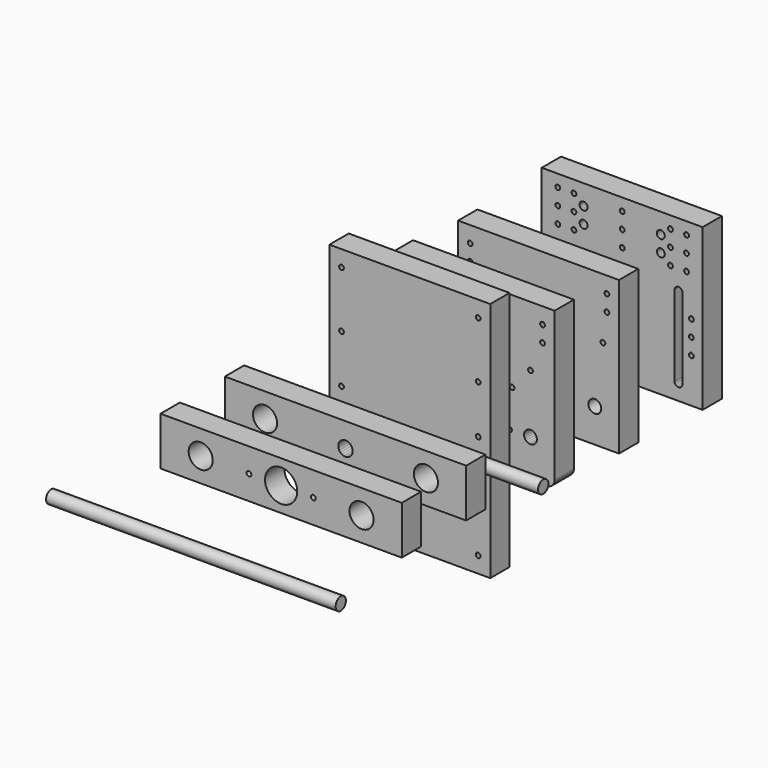
from build123d import *

# Parameters (mm, degrees)
F9_DEPTH  = 15
F2_W      = 100
F2_H      = 150
F10_DEPTH = 15
F4_W      = 150
F4_H      = 30
F4_R      = 7.5000000827
F4_R_2    = 7.4999999042
F11_DEPTH = 15
F6_W      = 150
F6_H      = 30
F6_R      = 1.5000002084
F6_R_2    = 7.5000003221
F6_R_3    = 7.5000001818
F6_R_4    = 10.0000000816
F6_R_5    = 1.5000000892
F12_DEPTH = 15
F8_W      = 100
F8_H      = 94.999957
F8_R      = 3.9999998967
F8_R_2    = 3.9999996848
F13_DEPTH = 15
F15_W     = 100
F15_H     = 100
F16_DEPTH = 15
F18_R     = 4
F19_DEPTH = 180


with BuildPart() as f9:
    # F0 (on Front) → F9 (new body)
    with BuildSketch(Plane.XZ):
        Polygon((-23.55, -51), (23.55, -51), (24.183408, -50.963818), (24.808576, -50.855743), (25.417371, -50.67718), (26.001871, -50.430453), (26.554474, -50.118771), (27.067989, -49.74619), (27.535737, -49.317556), (27.951633, -48.838446), (28.310264, -48.315092), (28.606967, -47.754305), (28.83788, -47.163378), (29, -46.55), (45, -46.55), (45.652631, -46.507225), (46.294095, -46.379629), (46.913417, -46.169398), (47.5, -45.880127), (48.043807, -45.516767), (48.535534, -45.085534), (48.966767, -44.593807), (49.330127, -44.05), (49.619398, -43.463417), (49.829629, -42.844095), (49.957224, -42.202631), (50, -41.55), (50, 51), (-50, 51), (-50, -41.55), (-49.957224, -42.202631), (-49.829629, -42.844095), (-49.619398, -43.463417), (-49.330127, -44.05), (-48.966767, -44.593807), (-48.535534, -45.085534), (-48.043807, -45.516767), (-47.5, -45.880127), (-46.913417, -46.169398), (-46.294095, -46.379629), (-45.652631, -46.507225), (-45, -46.55), (-29, -46.55), (-28.83788, -47.163378), (-28.606967, -47.754305), (-28.310264, -48.315092), (-27.951633, -48.838446), (-27.535738, -49.317556), (-27.067989, -49.74619), (-26.554474, -50.118771), (-26.001871, -50.430453), (-25.417371, -50.67718), (-24.808576, -50.855743), (-24.183408, -50.963818), align=None)
        Polygon((-22.101111, -46.938229), (-22.250962, -47.3), (-22.48934, -47.61066), (-22.8, -47.849038), (-23.161771, -47.998889), (-23.55, -48.05), (-23.938229, -47.998889), (-24.3, -47.849038), (-24.61066, -47.61066), (-24.849038, -47.3), (-24.998889, -46.938229), (-25.05, -46.55), (-24.998889, -46.161772), (-24.849038, -45.8), (-24.61066, -45.48934), (-24.3, -45.250962), (-23.938229, -45.101112), (-23.55, -45.05), (-23.161771, -45.101112), (-22.8, -45.250962), (-22.48934, -45.48934), (-22.250962, -45.8), (-22.101111, -46.161772), (-22.05, -46.55), align=None, mode=Mode.SUBTRACT)
        Polygon((-35, -27), (-36.035276, -26.863704), (-37, -26.464102), (-37.828427, -25.828427), (-38.464102, -25), (-38.863703, -24.035276), (-39, -23), (-38.863703, -21.964724), (-38.464102, -21), (-37.828427, -20.171573), (-37, -19.535899), (-36.035276, -19.136297), (-35, -19), (-33.964724, -19.136297), (-33, -19.535899), (-32.171573, -20.171573), (-31.535898, -21), (-31.136297, -21.964724), (-31, -23), (-31.136297, -24.035276), (-31.535898, -25), (-32.171573, -25.828427), (-33, -26.464102), (-33.964724, -26.863704), align=None, mode=Mode.SUBTRACT)
        Polygon((-21.17031, -24.299038), (-21.532082, -24.448889), (-21.92031, -24.5), (-22.308539, -24.448889), (-22.67031, -24.299038), (-22.98097, -24.06066), (-23.219348, -23.75), (-23.369199, -23.388229), (-23.42031, -23), (-23.369199, -22.611772), (-23.219348, -22.25), (-22.98097, -21.93934), (-22.67031, -21.700962), (-22.308539, -21.551112), (-21.92031, -21.5), (-21.532082, -21.551112), (-21.17031, -21.700962), (-20.85965, -21.93934), (-20.621272, -22.25), (-20.471421, -22.611772), (-20.42031, -23), (-20.471421, -23.388229), (-20.621272, -23.75), (-20.85965, -24.06066), align=None, mode=Mode.SUBTRACT)
        Polygon((-1.5, -44.92031), (-1.448889, -44.532082), (-1.299038, -44.17031), (-1.06066, -43.85965), (-0.75, -43.621272), (-0.388229, -43.471422), (0, -43.42031), (0.388229, -43.471422), (0.75, -43.621272), (1.06066, -43.85965), (1.299038, -44.17031), (1.448889, -44.532082), (1.5, -44.92031), (1.448889, -45.308539), (1.299038, -45.67031), (1.06066, -45.980971), (0.75, -46.219349), (0.388229, -46.369199), (0, -46.42031), (-0.388229, -46.369199), (-0.75, -46.219349), (-1.06066, -45.980971), (-1.299038, -45.67031), (-1.448889, -45.308539), align=None, mode=Mode.SUBTRACT)
        Polygon((22.48934, -45.48934), (22.8, -45.250962), (23.161771, -45.101112), (23.55, -45.05), (23.938229, -45.101112), (24.3, -45.250962), (24.61066, -45.48934), (24.849038, -45.8), (24.998889, -46.161772), (25.05, -46.55), (24.998889, -46.938229), (24.849038, -47.3), (24.61066, -47.61066), (24.3, -47.849038), (23.938229, -47.998889), (23.55, -48.05), (23.161771, -47.998889), (22.8, -47.849038), (22.48934, -47.61066), (22.250962, -47.3), (22.101111, -46.938229), (22.05, -46.55), (22.101111, -46.161772), (22.250962, -45.8), align=None, mode=Mode.SUBTRACT)
        Polygon((5.9, -33.2191), (3.054065, -34.397925), (0, -34.8), (-3.054065, -34.397925), (-5.9, -33.2191), (-8.34386, -31.34386), (-10.2191, -28.9), (-11.397925, -26.054065), (-11.8, -23), (-11.397925, -19.945936), (-10.2191, -17.1), (-8.34386, -14.65614), (-5.9, -12.7809), (-3.054065, -11.602075), (0, -11.2), (3.054065, -11.602075), (5.9, -12.7809), (8.34386, -14.65614), (10.2191, -17.1), (11.397925, -19.945936), (11.8, -23), (11.397925, -26.054065), (10.2191, -28.9), (8.34386, -31.34386), align=None, mode=Mode.SUBTRACT)
        Polygon((20.85965, -21.93934), (21.17031, -21.700962), (21.532082, -21.551112), (21.92031, -21.5), (22.308539, -21.551112), (22.67031, -21.700962), (22.98097, -21.93934), (23.219348, -22.25), (23.369199, -22.611772), (23.42031, -23), (23.369199, -23.388229), (23.219348, -23.75), (22.98097, -24.06066), (22.67031, -24.299038), (22.308539, -24.448889), (21.92031, -24.5), (21.532082, -24.448889), (21.17031, -24.299038), (20.85965, -24.06066), (20.621272, -23.75), (20.471421, -23.388229), (20.42031, -23), (20.471421, -22.611772), (20.621272, -22.25), align=None, mode=Mode.SUBTRACT)
        Polygon((-1.448889, -0.691461), (-1.299038, -0.32969), (-1.06066, -0.01903), (-0.75, 0.219348), (-0.388229, 0.369199), (0, 0.42031), (0.388229, 0.369199), (0.75, 0.219348), (1.06066, -0.01903), (1.299038, -0.32969), (1.448889, -0.691461), (1.5, -1.07969), (1.448889, -1.467919), (1.299038, -1.82969), (1.06066, -2.14035), (0.75, -2.378728), (0.388229, -2.528579), (0, -2.57969), (-0.388229, -2.528579), (-0.75, -2.378728), (-1.06066, -2.14035), (-1.299038, -1.82969), (-1.448889, -1.467919), (-1.5, -1.07969), align=None, mode=Mode.SUBTRACT)
        Polygon((33, -26.464102), (32.171573, -25.828427), (31.535898, -25), (31.136297, -24.035276), (31, -23), (31.136297, -21.964724), (31.535898, -21), (32.171573, -20.171573), (33, -19.535899), (33.964724, -19.136297), (35, -19), (36.035276, -19.136297), (37, -19.535899), (37.828427, -20.171573), (38.464102, -21), (38.863703, -21.964724), (39, -23), (38.863703, -24.035276), (38.464102, -25), (37.828427, -25.828427), (37, -26.464102), (36.035276, -26.863704), (35, -27), (33.964724, -26.863704), align=None, mode=Mode.SUBTRACT)
        Polygon((-35.75, 14.799038), (-35.388229, 14.948888), (-35, 15), (-34.611771, 14.948888), (-34.25, 14.799038), (-33.93934, 14.56066), (-33.700962, 14.25), (-33.551111, 13.888228), (-33.5, 13.5), (-33.551111, 13.111771), (-33.700962, 12.75), (-33.93934, 12.43934), (-34.25, 12.200962), (-34.611771, 12.051111), (-35, 12), (-35.388229, 12.051111), (-35.75, 12.200962), (-36.06066, 12.43934), (-36.299038, 12.75), (-36.448889, 13.111771), (-36.5, 13.5), (-36.448889, 13.888228), (-36.299038, 14.25), (-36.06066, 14.56066), align=None, mode=Mode.SUBTRACT)
        Polygon((-24.849038, -0.2), (-24.998889, 0.161771), (-25.05, 0.55), (-24.998889, 0.938228), (-24.849038, 1.3), (-24.61066, 1.61066), (-24.3, 1.849038), (-23.938229, 1.998888), (-23.55, 2.05), (-23.161771, 1.998888), (-22.8, 1.849038), (-22.48934, 1.61066), (-22.250962, 1.3), (-22.101111, 0.938228), (-22.05, 0.55), (-22.101111, 0.161771), (-22.250962, -0.2), (-22.48934, -0.51066), (-22.8, -0.749038), (-23.161771, -0.898889), (-23.55, -0.95), (-23.938229, -0.898889), (-24.3, -0.749038), (-24.61066, -0.51066), align=None, mode=Mode.SUBTRACT)
        Polygon((-19.611771, 14.948888), (-19.25, 14.799038), (-18.93934, 14.56066), (-18.700962, 14.25), (-18.551111, 13.888228), (-18.5, 13.5), (-18.551111, 13.111771), (-18.700962, 12.75), (-18.93934, 12.43934), (-19.25, 12.200962), (-19.611771, 12.051111), (-20, 12), (-20.388229, 12.051111), (-20.75, 12.200962), (-21.06066, 12.43934), (-21.299038, 12.75), (-21.448889, 13.111771), (-21.5, 13.5), (-21.448889, 13.888228), (-21.299038, 14.25), (-21.06066, 14.56066), (-20.75, 14.799038), (-20.388229, 14.948888), (-20, 15), align=None, mode=Mode.SUBTRACT)
        Polygon((-41.43934, 32.06066), (-41.200962, 31.75), (-41.051111, 31.388228), (-41, 31), (-41.051111, 30.611771), (-41.200962, 30.25), (-41.43934, 29.93934), (-41.75, 29.700962), (-42.111771, 29.551111), (-42.5, 29.5), (-42.888229, 29.551111), (-43.25, 29.700962), (-43.56066, 29.93934), (-43.799038, 30.25), (-43.948889, 30.611771), (-44, 31), (-43.948889, 31.388228), (-43.799038, 31.75), (-43.56066, 32.06066), (-43.25, 32.299038), (-42.888229, 32.448888), (-42.5, 32.5), (-42.111771, 32.448888), (-41.75, 32.299038), align=None, mode=Mode.SUBTRACT)
        Polygon((-41.501836, 39.880327), (-41.82564, 39.660135), (-42.195401, 39.531252), (-42.58592, 39.502463), (-42.970583, 39.575727), (-43.323177, 39.746054), (-43.619673, 40.001835), (-43.839865, 40.32564), (-43.968748, 40.695401), (-43.997537, 41.085919), (-43.924272, 41.470583), (-43.753946, 41.823177), (-43.498164, 42.119673), (-43.17436, 42.339865), (-42.804599, 42.468747), (-42.41408, 42.497537), (-42.029417, 42.424272), (-41.676823, 42.253945), (-41.380327, 41.998164), (-41.160135, 41.67436), (-41.031252, 41.304599), (-41.002463, 40.91408), (-41.075728, 40.529417), (-41.246055, 40.176823), align=None, mode=Mode.SUBTRACT)
        Polygon((24.998889, 0.161771), (24.849038, -0.2), (24.61066, -0.51066), (24.3, -0.749038), (23.938229, -0.898889), (23.55, -0.95), (23.161771, -0.898889), (22.8, -0.749038), (22.48934, -0.51066), (22.250962, -0.2), (22.101111, 0.161771), (22.05, 0.55), (22.101111, 0.938228), (22.250962, 1.3), (22.48934, 1.61066), (22.8, 1.849038), (23.161771, 1.998888), (23.55, 2.05), (23.938229, 1.998888), (24.3, 1.849038), (24.61066, 1.61066), (24.849038, 1.3), (24.998889, 0.938228), (25.05, 0.55), align=None, mode=Mode.SUBTRACT)
        Polygon((1.448889, 13.888228), (1.5, 13.5), (1.448889, 13.111771), (1.299038, 12.75), (1.06066, 12.43934), (0.75, 12.200962), (0.388229, 12.051111), (0, 12), (-0.388229, 12.051111), (-0.75, 12.200962), (-1.06066, 12.43934), (-1.299038, 12.75), (-1.448889, 13.111771), (-1.5, 13.5), (-1.448889, 13.888228), (-1.299038, 14.25), (-1.06066, 14.56066), (-0.75, 14.799038), (-0.388229, 14.948888), (0, 15), (0.388229, 14.948888), (0.75, 14.799038), (1.06066, 14.56066), (1.299038, 14.25), align=None, mode=Mode.SUBTRACT)
        Polygon((18.551111, 13.888228), (18.700962, 14.25), (18.93934, 14.56066), (19.25, 14.799038), (19.611771, 14.948888), (20, 15), (20.388229, 14.948888), (20.75, 14.799038), (21.06066, 14.56066), (21.299038, 14.25), (21.448889, 13.888228), (21.5, 13.5), (21.448889, 13.111771), (21.299038, 12.75), (21.06066, 12.43934), (20.75, 12.200962), (20.388229, 12.051111), (20, 12), (19.611771, 12.051111), (19.25, 12.200962), (18.93934, 12.43934), (18.700962, 12.75), (18.551111, 13.111771), (18.5, 13.5), align=None, mode=Mode.SUBTRACT)
        Polygon((36.06066, 12.43934), (35.75, 12.200962), (35.388229, 12.051111), (35, 12), (34.611771, 12.051111), (34.25, 12.200962), (33.93934, 12.43934), (33.700962, 12.75), (33.551111, 13.111771), (33.5, 13.5), (33.551111, 13.888228), (33.700962, 14.25), (33.93934, 14.56066), (34.25, 14.799038), (34.611771, 14.948888), (35, 15), (35.388229, 14.948888), (35.75, 14.799038), (36.06066, 14.56066), (36.299038, 14.25), (36.448889, 13.888228), (36.5, 13.5), (36.448889, 13.111771), (36.299038, 12.75), align=None, mode=Mode.SUBTRACT)
        Polygon((42.5, 32.5), (42.888229, 32.448888), (43.25, 32.299038), (43.56066, 32.06066), (43.799038, 31.75), (43.948889, 31.388228), (44, 31), (43.948889, 30.611771), (43.799038, 30.25), (43.56066, 29.93934), (43.25, 29.700962), (42.888229, 29.551111), (42.5, 29.5), (42.111771, 29.551111), (41.75, 29.700962), (41.43934, 29.93934), (41.200962, 30.25), (41.051111, 30.611771), (41, 31), (41.051111, 31.388228), (41.200962, 31.75), (41.43934, 32.06066), (41.75, 32.299038), (42.111771, 32.448888), align=None, mode=Mode.SUBTRACT)
        Polygon((41.43934, 42.06066), (41.75, 42.299038), (42.111771, 42.448888), (42.5, 42.5), (42.888229, 42.448888), (43.25, 42.299038), (43.56066, 42.06066), (43.799038, 41.75), (43.948889, 41.388228), (44, 41), (43.948889, 40.611771), (43.799038, 40.25), (43.56066, 39.93934), (43.25, 39.700962), (42.888229, 39.551111), (42.5, 39.5), (42.111771, 39.551111), (41.75, 39.700962), (41.43934, 39.93934), (41.200962, 40.25), (41.051111, 40.611771), (41, 41), (41.051111, 41.388228), (41.200962, 41.75), align=None, mode=Mode.SUBTRACT)
    extrude(amount=F9_DEPTH)


with BuildPart() as f10:
    # F2 (on offset) → F10 (new body)
    with BuildSketch(Plane.XZ.offset(50)):
        Rectangle(F2_W, F2_H)
        Polygon((-41.75, -66.299038), (-42.111771, -66.448889), (-42.5, -66.5), (-42.888228, -66.448889), (-43.25, -66.299038), (-43.56066, -66.06066), (-43.799038, -65.75), (-43.948889, -65.388229), (-44, -65), (-43.948889, -64.611772), (-43.799038, -64.25), (-43.56066, -63.93934), (-43.25, -63.700962), (-42.888228, -63.551112), (-42.5, -63.5), (-42.111771, -63.551112), (-41.75, -63.700962), (-41.43934, -63.93934), (-41.200962, -64.25), (-41.051111, -64.611772), (-41, -65), (-41.051111, -65.388229), (-41.200962, -65.75), (-41.43934, -66.06066), align=None, mode=Mode.SUBTRACT)
        Polygon((-43.799038, -30.75), (-43.948889, -30.388229), (-44, -30), (-43.948889, -29.611772), (-43.799038, -29.25), (-43.56066, -28.93934), (-43.25, -28.700962), (-42.888228, -28.551112), (-42.5, -28.5), (-42.111771, -28.551112), (-41.75, -28.700962), (-41.43934, -28.93934), (-41.200962, -29.25), (-41.051111, -29.611772), (-41, -30), (-41.051111, -30.388229), (-41.200962, -30.75), (-41.43934, -31.06066), (-41.75, -31.299038), (-42.111771, -31.448889), (-42.5, -31.5), (-42.888228, -31.448889), (-43.25, -31.299038), (-43.56066, -31.06066), align=None, mode=Mode.SUBTRACT)
        Polygon((42.111772, -66.448889), (41.75, -66.299038), (41.43934, -66.06066), (41.200962, -65.75), (41.051111, -65.388229), (41, -65), (41.051111, -64.611772), (41.200962, -64.25), (41.43934, -63.93934), (41.75, -63.700962), (42.111772, -63.551112), (42.5, -63.5), (42.888229, -63.551112), (43.25, -63.700962), (43.56066, -63.93934), (43.799038, -64.25), (43.948889, -64.611772), (44, -65), (43.948889, -65.388229), (43.799038, -65.75), (43.56066, -66.06066), (43.25, -66.299038), (42.888229, -66.448889), (42.5, -66.5), align=None, mode=Mode.SUBTRACT)
        Polygon((42.888229, -31.448889), (42.5, -31.5), (42.111772, -31.448889), (41.75, -31.299038), (41.43934, -31.06066), (41.200962, -30.75), (41.051111, -30.388229), (41, -30), (41.051111, -29.611772), (41.200962, -29.25), (41.43934, -28.93934), (41.75, -28.700962), (42.111772, -28.551112), (42.5, -28.5), (42.888229, -28.551112), (43.25, -28.700962), (43.56066, -28.93934), (43.799038, -29.25), (43.948889, -29.611772), (44, -30), (43.948889, -30.388229), (43.799038, -30.75), (43.56066, -31.06066), (43.25, -31.299038), align=None, mode=Mode.SUBTRACT)
        Polygon((-41.75, -1.299038), (-42.111771, -1.448889), (-42.5, -1.5), (-42.888228, -1.448889), (-43.25, -1.299038), (-43.56066, -1.06066), (-43.799038, -0.75), (-43.948889, -0.388229), (-44, 0), (-43.948889, 0.388228), (-43.799038, 0.75), (-43.56066, 1.06066), (-43.25, 1.299038), (-42.888228, 1.448888), (-42.5, 1.5), (-42.111771, 1.448888), (-41.75, 1.299038), (-41.43934, 1.06066), (-41.200962, 0.75), (-41.051111, 0.388228), (-41, 0), (-41.051111, -0.388229), (-41.200962, -0.75), (-41.43934, -1.06066), align=None, mode=Mode.SUBTRACT)
        Polygon((-43.25, 31.299038), (-42.888228, 31.448888), (-42.5, 31.5), (-42.111771, 31.448888), (-41.75, 31.299038), (-41.43934, 31.06066), (-41.200962, 30.75), (-41.051111, 30.388228), (-41, 30), (-41.051111, 29.611771), (-41.200962, 29.25), (-41.43934, 28.93934), (-41.75, 28.700962), (-42.111771, 28.551111), (-42.5, 28.5), (-42.888228, 28.551111), (-43.25, 28.700962), (-43.56066, 28.93934), (-43.799038, 29.25), (-43.948889, 29.611771), (-44, 30), (-43.948889, 30.388228), (-43.799038, 30.75), (-43.56066, 31.06066), align=None, mode=Mode.SUBTRACT)
        Polygon((-43.799038, 65.75), (-43.56066, 66.06066), (-43.25, 66.299038), (-42.888228, 66.448888), (-42.5, 66.5), (-42.111771, 66.448888), (-41.75, 66.299038), (-41.43934, 66.06066), (-41.200962, 65.75), (-41.051111, 65.388228), (-41, 65), (-41.051111, 64.611771), (-41.200962, 64.25), (-41.43934, 63.93934), (-41.75, 63.700962), (-42.111771, 63.551111), (-42.5, 63.5), (-42.888228, 63.551111), (-43.25, 63.700962), (-43.56066, 63.93934), (-43.799038, 64.25), (-43.948889, 64.611771), (-44, 65), (-43.948889, 65.388228), align=None, mode=Mode.SUBTRACT)
        Polygon((42.888229, -1.448889), (42.5, -1.5), (42.111772, -1.448889), (41.75, -1.299038), (41.43934, -1.06066), (41.200962, -0.75), (41.051111, -0.388229), (41, 0), (41.051111, 0.388228), (41.200962, 0.75), (41.43934, 1.06066), (41.75, 1.299038), (42.111772, 1.448888), (42.5, 1.5), (42.888229, 1.448888), (43.25, 1.299038), (43.56066, 1.06066), (43.799038, 0.75), (43.948889, 0.388228), (44, 0), (43.948889, -0.388229), (43.799038, -0.75), (43.56066, -1.06066), (43.25, -1.299038), align=None, mode=Mode.SUBTRACT)
        Polygon((42.111772, 31.448888), (42.5, 31.5), (42.888229, 31.448888), (43.25, 31.299038), (43.56066, 31.06066), (43.799038, 30.75), (43.948889, 30.388228), (44, 30), (43.948889, 29.611771), (43.799038, 29.25), (43.56066, 28.93934), (43.25, 28.700962), (42.888229, 28.551111), (42.5, 28.5), (42.111772, 28.551111), (41.75, 28.700962), (41.43934, 28.93934), (41.200962, 29.25), (41.051111, 29.611771), (41, 30), (41.051111, 30.388228), (41.200962, 30.75), (41.43934, 31.06066), (41.75, 31.299038), align=None, mode=Mode.SUBTRACT)
        Polygon((41.200962, 65.75), (41.43934, 66.06066), (41.75, 66.299038), (42.111772, 66.448888), (42.5, 66.5), (42.888229, 66.448888), (43.25, 66.299038), (43.56066, 66.06066), (43.799038, 65.75), (43.948889, 65.388228), (44, 65), (43.948889, 64.611771), (43.799038, 64.25), (43.56066, 63.93934), (43.25, 63.700962), (42.888229, 63.551111), (42.5, 63.5), (42.111772, 63.551111), (41.75, 63.700962), (41.43934, 63.93934), (41.200962, 64.25), (41.051111, 64.611771), (41, 65), (41.051111, 65.388228), align=None, mode=Mode.SUBTRACT)
    extrude(amount=F10_DEPTH)


with BuildPart() as f11:
    # F4 (on offset) → F11 (new body)
    with BuildSketch(Plane.XZ.offset(100)):
        Rectangle(F4_W, F4_H)
        with Locations((-50.0000000827, 8.27e-08)):
            Circle(F4_R, mode=Mode.SUBTRACT)
        Polygon((4.346666, 1.164685), (4.5, 0), (4.346666, -1.164686), (3.897114, -2.25), (3.18198, -3.181981), (2.25, -3.897115), (1.164685, -4.346666), (0, -4.5), (-1.164686, -4.346666), (-2.25, -3.897115), (-3.181981, -3.181981), (-3.897115, -2.25), (-4.346667, -1.164686), (-4.5, 0), (-4.346667, 1.164685), (-3.897115, 2.25), (-3.181981, 3.18198), (-2.25, 3.897114), (-1.164686, 4.346666), (0, 4.5), (1.164685, 4.346666), (2.25, 3.897114), (3.18198, 3.18198), (3.897114, 2.25), align=None, mode=Mode.SUBTRACT)
        with Locations((49.9999995823, 0)):
            Circle(F4_R_2, mode=Mode.SUBTRACT)
    extrude(amount=F11_DEPTH)


with BuildPart() as f12:
    # F6 (on offset) → F12 (new body)
    with BuildSketch(Plane.XZ.offset(150)):
        Rectangle(F6_W, F6_H)
        with Locations((-20.0000002195, -2.195e-07)):
            Circle(F6_R, mode=Mode.SUBTRACT)
        with Locations((50.0000001266, -4.67e-08)):
            Circle(F6_R_2, mode=Mode.SUBTRACT)
        with Locations((-49.9999998433, 1.818e-07)):
            Circle(F6_R_3, mode=Mode.SUBTRACT)
        with Locations((-1.792e-07, 8.16e-08)):
            Circle(F6_R_4, mode=Mode.SUBTRACT)
        with Locations((20.0000002602, 8.92e-08)):
            Circle(F6_R_5, mode=Mode.SUBTRACT)
    extrude(amount=F12_DEPTH)


with BuildPart() as f13:
    # F8 (on offset) → F13 (new body)
    with BuildSketch(Plane.XZ.offset(-50)):
        with Locations((0, 5e-07)):
            Rectangle(F8_W, F8_H)
        with Locations((-35, -26.5000211033)):
            Circle(F8_R, mode=Mode.SUBTRACT)
        Polygon((-5.5, -16.973742), (-2.847009, -15.874837), (0, -15.500021), (2.84701, -15.874837), (5.5, -16.973742), (7.778175, -18.721847), (9.526279, -21.000021), (10.625184, -23.653012), (11, -26.500021), (10.625184, -29.347031), (9.526279, -32.000021), (7.778175, -34.278196), (5.5, -36.026301), (2.84701, -37.125205), (0, -37.500021), (-2.847009, -37.125205), (-5.5, -36.026301), (-7.778175, -34.278196), (-9.526279, -32.000021), (-10.625184, -29.347031), (-11, -26.500021), (-10.625184, -23.653012), (-9.526279, -21.000021), (-7.778175, -18.721847), align=None, mode=Mode.SUBTRACT)
        with Locations((34.9999999652, -26.5000212311)):
            Circle(F8_R_2, mode=Mode.SUBTRACT)
        Polygon((-38.93934, 8.939319), (-39.25, 8.700941), (-39.611771, 8.55109), (-40, 8.499979), (-40.388229, 8.55109), (-40.75, 8.700941), (-41.06066, 8.939319), (-41.299038, 9.249979), (-41.448889, 9.61175), (-41.5, 9.999979), (-41.448889, 10.388207), (-41.299038, 10.749979), (-41.06066, 11.060639), (-40.75, 11.299017), (-40.388229, 11.448867), (-40, 11.499979), (-39.611771, 11.448867), (-39.25, 11.299017), (-38.93934, 11.060639), (-38.700962, 10.749979), (-38.551111, 10.388207), (-38.5, 9.999979), (-38.551111, 9.61175), (-38.700962, 9.249979), align=None, mode=Mode.SUBTRACT)
        Polygon((-14.611771, 8.55109), (-15, 8.499979), (-15.388229, 8.55109), (-15.75, 8.700941), (-16.06066, 8.939319), (-16.299038, 9.249979), (-16.448889, 9.61175), (-16.5, 9.999979), (-16.448889, 10.388207), (-16.299038, 10.749979), (-16.06066, 11.060639), (-15.75, 11.299017), (-15.388229, 11.448867), (-15, 11.499979), (-14.611771, 11.448867), (-14.25, 11.299017), (-13.93934, 11.060639), (-13.700962, 10.749979), (-13.551111, 10.388207), (-13.5, 9.999979), (-13.551111, 9.61175), (-13.700962, 9.249979), (-13.93934, 8.939319), (-14.25, 8.700941), align=None, mode=Mode.SUBTRACT)
        Polygon((-41, 27.499979), (-41.051111, 27.11175), (-41.200962, 26.749979), (-41.43934, 26.439319), (-41.75, 26.200941), (-42.111771, 26.05109), (-42.5, 25.999979), (-42.888229, 26.05109), (-43.25, 26.200941), (-43.56066, 26.439319), (-43.799038, 26.749979), (-43.948889, 27.11175), (-44, 27.499979), (-43.948889, 27.888207), (-43.799038, 28.249979), (-43.56066, 28.560639), (-43.25, 28.799017), (-42.888229, 28.948867), (-42.5, 28.999979), (-42.111771, 28.948867), (-41.75, 28.799017), (-41.43934, 28.560639), (-41.200962, 28.249979), (-41.051111, 27.888207), align=None, mode=Mode.SUBTRACT)
        Polygon((-41.200962, 38.249979), (-41.051111, 37.888207), (-41, 37.499979), (-41.051111, 37.11175), (-41.200962, 36.749979), (-41.43934, 36.439319), (-41.75, 36.200941), (-42.111771, 36.05109), (-42.5, 35.999979), (-42.888229, 36.05109), (-43.25, 36.200941), (-43.56066, 36.439319), (-43.799038, 36.749979), (-43.948889, 37.11175), (-44, 37.499979), (-43.948889, 37.888207), (-43.799038, 38.249979), (-43.56066, 38.560639), (-43.25, 38.799017), (-42.888229, 38.948867), (-42.5, 38.999979), (-42.111771, 38.948867), (-41.75, 38.799017), (-41.43934, 38.560639), align=None, mode=Mode.SUBTRACT)
        Polygon((15, 11.499979), (15.388229, 11.448867), (15.75, 11.299017), (16.06066, 11.060639), (16.299038, 10.749979), (16.448889, 10.388207), (16.5, 9.999979), (16.448889, 9.61175), (16.299038, 9.249979), (16.06066, 8.939319), (15.75, 8.700941), (15.388229, 8.55109), (15, 8.499979), (14.611771, 8.55109), (14.25, 8.700941), (13.93934, 8.939319), (13.700962, 9.249979), (13.551111, 9.61175), (13.5, 9.999979), (13.551111, 10.388207), (13.700962, 10.749979), (13.93934, 11.060639), (14.25, 11.299017), (14.611771, 11.448867), align=None, mode=Mode.SUBTRACT)
        Polygon((38.5, 9.999979), (38.551111, 10.388207), (38.700962, 10.749979), (38.93934, 11.060639), (39.25, 11.299017), (39.611771, 11.448867), (40, 11.499979), (40.388229, 11.448867), (40.75, 11.299017), (41.06066, 11.060639), (41.299038, 10.749979), (41.448889, 10.388207), (41.5, 9.999979), (41.448889, 9.61175), (41.299038, 9.249979), (41.06066, 8.939319), (40.75, 8.700941), (40.388229, 8.55109), (40, 8.499979), (39.611771, 8.55109), (39.25, 8.700941), (38.93934, 8.939319), (38.700962, 9.249979), (38.551111, 9.61175), align=None, mode=Mode.SUBTRACT)
        Polygon((43.948889, 27.11175), (43.799038, 26.749979), (43.56066, 26.439319), (43.25, 26.200941), (42.888229, 26.05109), (42.5, 25.999979), (42.111771, 26.05109), (41.75, 26.200941), (41.43934, 26.439319), (41.200962, 26.749979), (41.051111, 27.11175), (41, 27.499979), (41.051111, 27.888207), (41.200962, 28.249979), (41.43934, 28.560639), (41.75, 28.799017), (42.111771, 28.948867), (42.5, 28.999979), (42.888229, 28.948867), (43.25, 28.799017), (43.56066, 28.560639), (43.799038, 28.249979), (43.948889, 27.888207), (44, 27.499979), align=None, mode=Mode.SUBTRACT)
        Polygon((44, 37.499979), (43.948889, 37.11175), (43.799038, 36.749979), (43.56066, 36.439319), (43.25, 36.200941), (42.888229, 36.05109), (42.5, 35.999979), (42.111771, 36.05109), (41.75, 36.200941), (41.43934, 36.439319), (41.200962, 36.749979), (41.051111, 37.11175), (41, 37.499979), (41.051111, 37.888207), (41.200962, 38.249979), (41.43934, 38.560639), (41.75, 38.799017), (42.111771, 38.948867), (42.5, 38.999979), (42.888229, 38.948867), (43.25, 38.799017), (43.56066, 38.560639), (43.799038, 38.249979), (43.948889, 37.888207), align=None, mode=Mode.SUBTRACT)
    extrude(amount=F13_DEPTH)


with BuildPart() as f16:
    # F15 (on offset) → F16 (new body)
    with BuildSketch(Plane(origin=(0, 100, 0), x_dir=(-1, 0, 0), z_dir=(0, 1, 0))):
        Rectangle(F15_W, F15_H)
        Polygon((-42.25, -23.799038), (-42.611771, -23.948889), (-43, -24), (-43.388229, -23.948889), (-43.75, -23.799038), (-44.06066, -23.56066), (-44.299038, -23.25), (-44.448889, -22.888229), (-44.5, -22.5), (-44.448889, -22.111772), (-44.299038, -21.75), (-44.06066, -21.43934), (-43.75, -21.200962), (-43.388229, -21.051111), (-43, -21), (-42.611771, -21.051111), (-42.25, -21.200962), (-41.93934, -21.43934), (-41.700962, -21.75), (-41.551111, -22.111772), (-41.5, -22.5), (-41.551111, -22.888229), (-41.700962, -23.25), (-41.93934, -23.56066), align=None, mode=Mode.SUBTRACT)
        Polygon((-32.5, -40), (-32.585185, -40.647048), (-32.834936, -41.25), (-33.232233, -41.767767), (-33.75, -42.165064), (-34.352952, -42.414815), (-35, -42.5), (-35.647048, -42.414815), (-36.25, -42.165064), (-36.767767, -41.767767), (-37.165063, -41.25), (-37.414815, -40.647048), (-37.5, -40), (-37.5, 10), (-37.414815, 10.647047), (-37.165063, 11.25), (-36.767767, 11.767767), (-36.25, 12.165063), (-35.647048, 12.414814), (-35, 12.5), (-34.352952, 12.414814), (-33.75, 12.165063), (-33.232233, 11.767767), (-32.834936, 11.25), (-32.585185, 10.647047), (-32.5, 10), align=None, mode=Mode.SUBTRACT)
        Polygon((-41.5, -12.5), (-41.551111, -12.888229), (-41.700962, -13.25), (-41.93934, -13.56066), (-42.25, -13.799038), (-42.611771, -13.948889), (-43, -14), (-43.388229, -13.948889), (-43.75, -13.799038), (-44.06066, -13.56066), (-44.299038, -13.25), (-44.448889, -12.888229), (-44.5, -12.5), (-44.448889, -12.111772), (-44.299038, -11.75), (-44.06066, -11.43934), (-43.75, -11.200962), (-43.388229, -11.051111), (-43, -11), (-42.611771, -11.051111), (-42.25, -11.200962), (-41.93934, -11.43934), (-41.700962, -11.75), (-41.551111, -12.111772), align=None, mode=Mode.SUBTRACT)
        Polygon((-42.25, -3.799038), (-42.611771, -3.948889), (-43, -4), (-43.388229, -3.948889), (-43.75, -3.799038), (-44.06066, -3.56066), (-44.299038, -3.25), (-44.448889, -2.888229), (-44.5, -2.5), (-44.448889, -2.111772), (-44.299038, -1.75), (-44.06066, -1.43934), (-43.75, -1.200962), (-43.388229, -1.051111), (-43, -1), (-42.611771, -1.051111), (-42.25, -1.200962), (-41.93934, -1.43934), (-41.700962, -1.75), (-41.551111, -2.111772), (-41.5, -2.5), (-41.551111, -2.888229), (-41.700962, -3.25), (-41.93934, -3.56066), align=None, mode=Mode.SUBTRACT)
        Polygon((-0.75, -23.799038), (-1.06066, -23.56066), (-1.299038, -23.25), (-1.448889, -22.888229), (-1.5, -22.5), (-1.448889, -22.111772), (-1.299038, -21.75), (-1.06066, -21.43934), (-0.75, -21.200962), (-0.388229, -21.051111), (0, -21), (0.388229, -21.051111), (0.75, -21.200962), (1.06066, -21.43934), (1.299038, -21.75), (1.448889, -22.111772), (1.5, -22.5), (1.448889, -22.888229), (1.299038, -23.25), (1.06066, -23.56066), (0.75, -23.799038), (0.388229, -23.948889), (0, -24), (-0.388229, -23.948889), align=None, mode=Mode.SUBTRACT)
        Polygon((-0.75, -11.200962), (-0.388229, -11.051111), (0, -11), (0.388229, -11.051111), (0.75, -11.200962), (1.06066, -11.43934), (1.299038, -11.75), (1.448889, -12.111772), (1.5, -12.5), (1.448889, -12.888229), (1.299038, -13.25), (1.06066, -13.56066), (0.75, -13.799038), (0.388229, -13.948889), (0, -14), (-0.388229, -13.948889), (-0.75, -13.799038), (-1.06066, -13.56066), (-1.299038, -13.25), (-1.448889, -12.888229), (-1.5, -12.5), (-1.448889, -12.111772), (-1.299038, -11.75), (-1.06066, -11.43934), align=None, mode=Mode.SUBTRACT)
        Polygon((1.06066, -3.56066), (0.75, -3.799038), (0.388229, -3.948889), (0, -4), (-0.388229, -3.948889), (-0.75, -3.799038), (-1.06066, -3.56066), (-1.299038, -3.25), (-1.448889, -2.888229), (-1.5, -2.5), (-1.448889, -2.111772), (-1.299038, -1.75), (-1.06066, -1.43934), (-0.75, -1.200962), (-0.388229, -1.051111), (0, -1), (0.388229, -1.051111), (0.75, -1.200962), (1.06066, -1.43934), (1.299038, -1.75), (1.448889, -2.111772), (1.5, -2.5), (1.448889, -2.888229), (1.299038, -3.25), align=None, mode=Mode.SUBTRACT)
        Polygon((37.5, -40), (37.414815, -40.647048), (37.165064, -41.25), (36.767767, -41.767767), (36.25, -42.165064), (35.647048, -42.414815), (35, -42.5), (34.352952, -42.414815), (33.75, -42.165064), (33.232233, -41.767767), (32.834937, -41.25), (32.585185, -40.647048), (32.5, -40), (32.5, 10), (32.585185, 10.647047), (32.834937, 11.25), (33.232233, 11.767767), (33.75, 12.165063), (34.352952, 12.414814), (35, 12.5), (35.647048, 12.414814), (36.25, 12.165063), (36.767767, 11.767767), (37.165064, 11.25), (37.414815, 10.647047), (37.5, 10), align=None, mode=Mode.SUBTRACT)
        Polygon((41.551111, -22.888229), (41.5, -22.5), (41.551111, -22.111772), (41.700962, -21.75), (41.93934, -21.43934), (42.25, -21.200962), (42.611771, -21.051111), (43, -21), (43.388229, -21.051111), (43.75, -21.200962), (44.06066, -21.43934), (44.299038, -21.75), (44.448889, -22.111772), (44.5, -22.5), (44.448889, -22.888229), (44.299038, -23.25), (44.06066, -23.56066), (43.75, -23.799038), (43.388229, -23.948889), (43, -24), (42.611771, -23.948889), (42.25, -23.799038), (41.93934, -23.56066), (41.700962, -23.25), align=None, mode=Mode.SUBTRACT)
        Polygon((44.5, -12.5), (44.448889, -12.888229), (44.299038, -13.25), (44.06066, -13.56066), (43.75, -13.799038), (43.388229, -13.948889), (43, -14), (42.611771, -13.948889), (42.25, -13.799038), (41.93934, -13.56066), (41.700962, -13.25), (41.551111, -12.888229), (41.5, -12.5), (41.551111, -12.111772), (41.700962, -11.75), (41.93934, -11.43934), (42.25, -11.200962), (42.611771, -11.051111), (43, -11), (43.388229, -11.051111), (43.75, -11.200962), (44.06066, -11.43934), (44.299038, -11.75), (44.448889, -12.111772), align=None, mode=Mode.SUBTRACT)
        Polygon((42.611771, -3.948889), (42.25, -3.799038), (41.93934, -3.56066), (41.700962, -3.25), (41.551111, -2.888229), (41.5, -2.5), (41.551111, -2.111772), (41.700962, -1.75), (41.93934, -1.43934), (42.25, -1.200962), (42.611771, -1.051111), (43, -1), (43.388229, -1.051111), (43.75, -1.200962), (44.06066, -1.43934), (44.299038, -1.75), (44.448889, -2.111772), (44.5, -2.5), (44.448889, -2.888229), (44.299038, -3.25), (44.06066, -3.56066), (43.75, -3.799038), (43.388229, -3.948889), (43, -4), align=None, mode=Mode.SUBTRACT)
        Polygon((-38.551111, 22.888228), (-38.5, 22.5), (-38.551111, 22.111771), (-38.700962, 21.75), (-38.93934, 21.43934), (-39.25, 21.200962), (-39.611771, 21.051111), (-40, 21), (-40.388229, 21.051111), (-40.75, 21.200962), (-41.06066, 21.43934), (-41.299038, 21.75), (-41.448889, 22.111771), (-41.5, 22.5), (-41.448889, 22.888228), (-41.299038, 23.25), (-41.06066, 23.56066), (-40.75, 23.799038), (-40.388229, 23.948889), (-40, 24), (-39.611771, 23.948889), (-39.25, 23.799038), (-38.93934, 23.56066), (-38.700962, 23.25), align=None, mode=Mode.SUBTRACT)
        Polygon((-29.611771, 23.948889), (-29.25, 23.799038), (-28.93934, 23.56066), (-28.700962, 23.25), (-28.551111, 22.888228), (-28.5, 22.5), (-28.551111, 22.111771), (-28.700962, 21.75), (-28.93934, 21.43934), (-29.25, 21.200962), (-29.611771, 21.051111), (-30, 21), (-30.388229, 21.051111), (-30.75, 21.200962), (-31.06066, 21.43934), (-31.299038, 21.75), (-31.448889, 22.111771), (-31.5, 22.5), (-31.448889, 22.888228), (-31.299038, 23.25), (-31.06066, 23.56066), (-30.75, 23.799038), (-30.388229, 23.948889), (-30, 24), align=None, mode=Mode.SUBTRACT)
        Polygon((-38.551111, 32.888228), (-38.5, 32.5), (-38.551111, 32.111771), (-38.700962, 31.75), (-38.93934, 31.43934), (-39.25, 31.200962), (-39.611771, 31.051111), (-40, 31), (-40.388229, 31.051111), (-40.75, 31.200962), (-41.06066, 31.43934), (-41.299038, 31.75), (-41.448889, 32.111771), (-41.5, 32.5), (-41.448889, 32.888228), (-41.299038, 33.25), (-41.06066, 33.56066), (-40.75, 33.799038), (-40.388229, 33.948889), (-40, 34), (-39.611771, 33.948889), (-39.25, 33.799038), (-38.93934, 33.56066), (-38.700962, 33.25), align=None, mode=Mode.SUBTRACT)
        Polygon((-31.06066, 33.56066), (-30.75, 33.799038), (-30.388229, 33.948889), (-30, 34), (-29.611771, 33.948889), (-29.25, 33.799038), (-28.93934, 33.56066), (-28.700962, 33.25), (-28.551111, 32.888228), (-28.5, 32.5), (-28.551111, 32.111771), (-28.700962, 31.75), (-28.93934, 31.43934), (-29.25, 31.200962), (-29.611771, 31.051111), (-30, 31), (-30.388229, 31.051111), (-30.75, 31.200962), (-31.06066, 31.43934), (-31.299038, 31.75), (-31.448889, 32.111771), (-31.5, 32.5), (-31.448889, 32.888228), (-31.299038, 33.25), align=None, mode=Mode.SUBTRACT)
        Polygon((-40.75, 43.799038), (-40.388229, 43.948889), (-40, 44), (-39.611771, 43.948889), (-39.25, 43.799038), (-38.93934, 43.56066), (-38.700962, 43.25), (-38.551111, 42.888228), (-38.5, 42.5), (-38.551111, 42.111771), (-38.700962, 41.75), (-38.93934, 41.43934), (-39.25, 41.200962), (-39.611771, 41.051111), (-40, 41), (-40.388229, 41.051111), (-40.75, 41.200962), (-41.06066, 41.43934), (-41.299038, 41.75), (-41.448889, 42.111771), (-41.5, 42.5), (-41.448889, 42.888228), (-41.299038, 43.25), (-41.06066, 43.56066), align=None, mode=Mode.SUBTRACT)
        Polygon((-30, 41), (-30.388229, 41.051111), (-30.75, 41.200962), (-31.06066, 41.43934), (-31.299038, 41.75), (-31.448889, 42.111771), (-31.5, 42.5), (-31.448889, 42.888228), (-31.299038, 43.25), (-31.06066, 43.56066), (-30.75, 43.799038), (-30.388229, 43.948889), (-30, 44), (-29.611771, 43.948889), (-29.25, 43.799038), (-28.93934, 43.56066), (-28.700962, 43.25), (-28.551111, 42.888228), (-28.5, 42.5), (-28.551111, 42.111771), (-28.700962, 41.75), (-28.93934, 41.43934), (-29.25, 41.200962), (-29.611771, 41.051111), align=None, mode=Mode.SUBTRACT)
        Polygon((-26.414815, 26.852952), (-26.5, 27.5), (-26.414815, 28.147047), (-26.165063, 28.75), (-25.767767, 29.267767), (-25.25, 29.665063), (-24.647048, 29.914814), (-24, 30), (-23.352952, 29.914814), (-22.75, 29.665063), (-22.232233, 29.267767), (-21.834936, 28.75), (-21.585185, 28.147047), (-21.5, 27.5), (-21.585185, 26.852952), (-21.834936, 26.25), (-22.232233, 25.732233), (-22.75, 25.334936), (-23.352952, 25.085185), (-24, 25), (-24.647048, 25.085185), (-25.25, 25.334936), (-25.767767, 25.732233), (-26.165063, 26.25), align=None, mode=Mode.SUBTRACT)
        Polygon((-23.352952, 35.085185), (-24, 35), (-24.647048, 35.085185), (-25.25, 35.334936), (-25.767767, 35.732233), (-26.165063, 36.25), (-26.414815, 36.852952), (-26.5, 37.5), (-26.414815, 38.147047), (-26.165063, 38.75), (-25.767767, 39.267767), (-25.25, 39.665063), (-24.647048, 39.914814), (-24, 40), (-23.352952, 39.914814), (-22.75, 39.665063), (-22.232233, 39.267767), (-21.834936, 38.75), (-21.585185, 38.147047), (-21.5, 37.5), (-21.585185, 36.852952), (-21.834936, 36.25), (-22.232233, 35.732233), (-22.75, 35.334936), align=None, mode=Mode.SUBTRACT)
        Polygon((-0.75, 23.799038), (-0.388229, 23.948889), (0, 24), (0.388229, 23.948889), (0.75, 23.799038), (1.06066, 23.56066), (1.299038, 23.25), (1.448889, 22.888228), (1.5, 22.5), (1.448889, 22.111771), (1.299038, 21.75), (1.06066, 21.43934), (0.75, 21.200962), (0.388229, 21.051111), (0, 21), (-0.388229, 21.051111), (-0.75, 21.200962), (-1.06066, 21.43934), (-1.299038, 21.75), (-1.448889, 22.111771), (-1.5, 22.5), (-1.448889, 22.888228), (-1.299038, 23.25), (-1.06066, 23.56066), align=None, mode=Mode.SUBTRACT)
        Polygon((31.299038, 21.75), (31.06066, 21.43934), (30.75, 21.200962), (30.388229, 21.051111), (30, 21), (29.611771, 21.051111), (29.25, 21.200962), (28.93934, 21.43934), (28.700962, 21.75), (28.551111, 22.111771), (28.5, 22.5), (28.551111, 22.888228), (28.700962, 23.25), (28.93934, 23.56066), (29.25, 23.799038), (29.611771, 23.948889), (30, 24), (30.388229, 23.948889), (30.75, 23.799038), (31.06066, 23.56066), (31.299038, 23.25), (31.448889, 22.888228), (31.5, 22.5), (31.448889, 22.111771), align=None, mode=Mode.SUBTRACT)
        Polygon((38.700962, 23.25), (38.93934, 23.56066), (39.25, 23.799038), (39.611771, 23.948889), (40, 24), (40.388229, 23.948889), (40.75, 23.799038), (41.06066, 23.56066), (41.299038, 23.25), (41.448889, 22.888228), (41.5, 22.5), (41.448889, 22.111771), (41.299038, 21.75), (41.06066, 21.43934), (40.75, 21.200962), (40.388229, 21.051111), (40, 21), (39.611771, 21.051111), (39.25, 21.200962), (38.93934, 21.43934), (38.700962, 21.75), (38.551111, 22.111771), (38.5, 22.5), (38.551111, 22.888228), align=None, mode=Mode.SUBTRACT)
        Polygon((1.5, 32.5), (1.448889, 32.111771), (1.299038, 31.75), (1.06066, 31.43934), (0.75, 31.200962), (0.388229, 31.051111), (0, 31), (-0.388229, 31.051111), (-0.75, 31.200962), (-1.06066, 31.43934), (-1.299038, 31.75), (-1.448889, 32.111771), (-1.5, 32.5), (-1.448889, 32.888228), (-1.299038, 33.25), (-1.06066, 33.56066), (-0.75, 33.799038), (-0.388229, 33.948889), (0, 34), (0.388229, 33.948889), (0.75, 33.799038), (1.06066, 33.56066), (1.299038, 33.25), (1.448889, 32.888228), align=None, mode=Mode.SUBTRACT)
        Polygon((24.647048, 25.085185), (24, 25), (23.352952, 25.085185), (22.75, 25.334936), (22.232233, 25.732233), (21.834937, 26.25), (21.585185, 26.852952), (21.5, 27.5), (21.585185, 28.147047), (21.834937, 28.75), (22.232233, 29.267767), (22.75, 29.665063), (23.352952, 29.914814), (24, 30), (24.647048, 29.914814), (25.25, 29.665063), (25.767767, 29.267767), (26.165064, 28.75), (26.414815, 28.147047), (26.5, 27.5), (26.414815, 26.852952), (26.165064, 26.25), (25.767767, 25.732233), (25.25, 25.334936), align=None, mode=Mode.SUBTRACT)
        Polygon((1.299038, 43.25), (1.448889, 42.888228), (1.5, 42.5), (1.448889, 42.111771), (1.299038, 41.75), (1.06066, 41.43934), (0.75, 41.200962), (0.388229, 41.051111), (0, 41), (-0.388229, 41.051111), (-0.75, 41.200962), (-1.06066, 41.43934), (-1.299038, 41.75), (-1.448889, 42.111771), (-1.5, 42.5), (-1.448889, 42.888228), (-1.299038, 43.25), (-1.06066, 43.56066), (-0.75, 43.799038), (-0.388229, 43.948889), (0, 44), (0.388229, 43.948889), (0.75, 43.799038), (1.06066, 43.56066), align=None, mode=Mode.SUBTRACT)
        Polygon((26.165064, 36.25), (25.767767, 35.732233), (25.25, 35.334936), (24.647048, 35.085185), (24, 35), (23.352952, 35.085185), (22.75, 35.334936), (22.232233, 35.732233), (21.834937, 36.25), (21.585185, 36.852952), (21.5, 37.5), (21.585185, 38.147047), (21.834937, 38.75), (22.232233, 39.267767), (22.75, 39.665063), (23.352952, 39.914814), (24, 40), (24.647048, 39.914814), (25.25, 39.665063), (25.767767, 39.267767), (26.165064, 38.75), (26.414815, 38.147047), (26.5, 37.5), (26.414815, 36.852952), align=None, mode=Mode.SUBTRACT)
        Polygon((30.75, 33.799038), (31.06066, 33.56066), (31.299038, 33.25), (31.448889, 32.888228), (31.5, 32.5), (31.448889, 32.111771), (31.299038, 31.75), (31.06066, 31.43934), (30.75, 31.200962), (30.388229, 31.051111), (30, 31), (29.611771, 31.051111), (29.25, 31.200962), (28.93934, 31.43934), (28.700962, 31.75), (28.551111, 32.111771), (28.5, 32.5), (28.551111, 32.888228), (28.700962, 33.25), (28.93934, 33.56066), (29.25, 33.799038), (29.611771, 33.948889), (30, 34), (30.388229, 33.948889), align=None, mode=Mode.SUBTRACT)
        Polygon((40.75, 31.200962), (40.388229, 31.051111), (40, 31), (39.611771, 31.051111), (39.25, 31.200962), (38.93934, 31.43934), (38.700962, 31.75), (38.551111, 32.111771), (38.5, 32.5), (38.551111, 32.888228), (38.700962, 33.25), (38.93934, 33.56066), (39.25, 33.799038), (39.611771, 33.948889), (40, 34), (40.388229, 33.948889), (40.75, 33.799038), (41.06066, 33.56066), (41.299038, 33.25), (41.448889, 32.888228), (41.5, 32.5), (41.448889, 32.111771), (41.299038, 31.75), (41.06066, 31.43934), align=None, mode=Mode.SUBTRACT)
        Polygon((29.611771, 43.948889), (30, 44), (30.388229, 43.948889), (30.75, 43.799038), (31.06066, 43.56066), (31.299038, 43.25), (31.448889, 42.888228), (31.5, 42.5), (31.448889, 42.111771), (31.299038, 41.75), (31.06066, 41.43934), (30.75, 41.200962), (30.388229, 41.051111), (30, 41), (29.611771, 41.051111), (29.25, 41.200962), (28.93934, 41.43934), (28.700962, 41.75), (28.551111, 42.111771), (28.5, 42.5), (28.551111, 42.888228), (28.700962, 43.25), (28.93934, 43.56066), (29.25, 43.799038), align=None, mode=Mode.SUBTRACT)
        Polygon((40.75, 41.200962), (40.388229, 41.051111), (40, 41), (39.611771, 41.051111), (39.25, 41.200962), (38.93934, 41.43934), (38.700962, 41.75), (38.551111, 42.111771), (38.5, 42.5), (38.551111, 42.888228), (38.700962, 43.25), (38.93934, 43.56066), (39.25, 43.799038), (39.611771, 43.948889), (40, 44), (40.388229, 43.948889), (40.75, 43.799038), (41.06066, 43.56066), (41.299038, 43.25), (41.448889, 42.888228), (41.5, 42.5), (41.448889, 42.111771), (41.299038, 41.75), (41.06066, 41.43934), align=None, mode=Mode.SUBTRACT)
    extrude(amount=F16_DEPTH)


with BuildPart() as f19:
    # F18 (on offset) → F19 (new body)
    with BuildSketch(Plane.YZ.offset(100)):
        with Locations((-243.6524033546, 0)):
            Circle(F18_R)
    extrude(amount=-F19_DEPTH)


with BuildPart() as f20_1:
    # F20: instance of F19
    add(f19.part.mirror(Plane(origin=(-7.91e-08, -165, -1.27e-08), x_dir=(1, 0, 0), z_dir=(0, -1, 0))))


solid = Compound([f9.part, f10.part, f11.part, f12.part, f13.part, f16.part, f19.part, f20_1.part])
